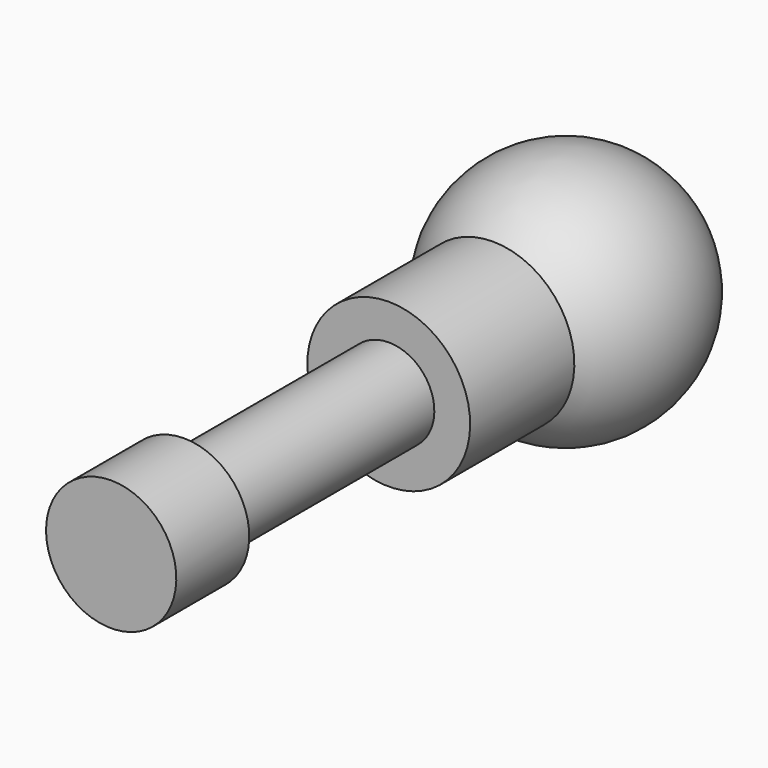
from build123d import *


with BuildPart() as f1:
    # F0 (on Right) → F1 (revolve)
    with BuildSketch(Plane.YZ):
        with BuildLine():
            Line((0, 0.635), (0, 0))
            Line((0, 0), (6.731, 0))
            ThreePointArc((6.731, 0), (5.965216, 1.112249), (4.652936, 0.79375))
            Line((4.652936, 0.79375), (3.382936, 0.79375))
            Line((3.382936, 0.79375), (3.382936, 0.4445))
            Line((3.382936, 0.4445), (0.889, 0.4445))
            Line((0.889, 0.4445), (0.889, 0.635))
            Line((0.889, 0.635), (0, 0.635))
        make_face()
    revolve(axis=Axis((0, 3.3655, 0), (0, 1, 0)))


solid = f1.part
